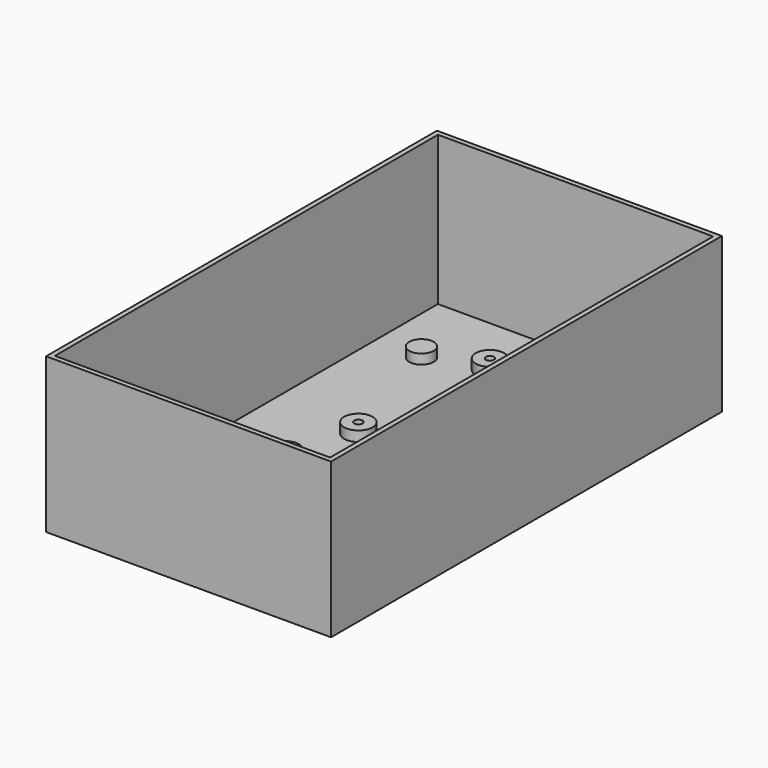
from build123d import *

# Parameters (mm, degrees)
SKETCH_W        = 70
SKETCH_H        = 120
PAD_DEPTH       = 38
SKETCH001_W     = 67.6
SKETCH001_H     = 117.6
POCKET_DEPTH    = 36.6
SKETCH112_R     = 3
PAD080_DEPTH    = 2.4
SKETCH113_R     = 1.1
POCKET031_DEPTH = 3
SKETCH136_R     = 3.5
PAD096_DEPTH    = 2.5
SKETCH137_R     = 1
POCKET039_DEPTH = 3
SKETCH138_W     = 9.2
SKETCH138_H     = 3.4
POCKET040_DEPTH = 1.401


with BuildPart() as part:
    # Sketch → Pad (new body)
    with BuildSketch(Plane.XY):
        Rectangle(SKETCH_W, SKETCH_H)
    extrude(amount=PAD_DEPTH)

    # Sketch001 (on DatumPlane) → Pocket (cut)
    with BuildSketch(Plane.XY.offset(38)):
        Rectangle(SKETCH001_W, SKETCH001_H)
    extrude(amount=-POCKET_DEPTH, mode=Mode.SUBTRACT)

    # Sketch112 → Pad080 (join)
    with BuildSketch(Plane.XY.offset(1.4)):
        with Locations((22.4, 39.500007)):
            Circle(SKETCH112_R)
        with Locations((-22.4, 39.500007)):
            Circle(SKETCH112_R)
        with Locations((-22.4, -25.499993)):
            Circle(SKETCH112_R)
        with Locations((22.4, -25.499993)):
            Circle(SKETCH112_R)
    extrude(amount=PAD080_DEPTH)

    # Sketch113 (on Face4 of Pad080) → Pocket031 (cut)
    with BuildSketch(Plane(origin=(0, 0, 0), x_dir=(1, 0, 0), z_dir=(0, 0, -1))):
        with Locations((22.4, -39.500007)):
            Circle(SKETCH113_R)
        with Locations((-22.4, -39.500007)):
            Circle(SKETCH113_R)
        with Locations((22.4, 25.499993)):
            Circle(SKETCH113_R)
        with Locations((-22.4, 25.499993)):
            Circle(SKETCH113_R)
    extrude(amount=-POCKET031_DEPTH, mode=Mode.SUBTRACT)

    # Sketch136 (on Face11 of Pad080) → Pad096 (join)
    with BuildSketch(Plane.XY.offset(1.4)):
        with Locations((20.403804, -13.646444)):
            Circle(SKETCH136_R)
        with Locations((-16.012195, -10.464463)):
            Circle(SKETCH136_R)
        with Locations((3.786795, -30.263453)):
            Circle(SKETCH136_R)
        with Locations((-8.901281, 43.65864)):
            Circle(SKETCH136_R)
        with Locations((7.715729, 27.041631)):
            Circle(SKETCH136_R)
        with Locations((-12.083261, 7.242641)):
            Circle(SKETCH136_R)
    extrude(amount=PAD096_DEPTH)

    # Sketch137 (on Face37 of Pad096) → Pocket039 (cut)
    with BuildSketch(Plane.XY.offset(3.9)):
        with Locations((-8.901281, 43.65864)):
            Circle(SKETCH137_R)
        with Locations((7.715729, 27.041631)):
            Circle(SKETCH137_R)
        with Locations((-12.083261, 7.242641)):
            Circle(SKETCH137_R)
        with Locations((-16.012195, -10.464463)):
            Circle(SKETCH137_R)
        with Locations((20.403804, -13.646444)):
            Circle(SKETCH137_R)
        with Locations((3.786795, -30.263453)):
            Circle(SKETCH137_R)
    extrude(amount=-POCKET039_DEPTH, mode=Mode.SUBTRACT)

    # Sketch138 (on Face19 of Pocket039) → Pocket040 (cut, through all)
    with BuildSketch(Plane.XY.offset(1.4)):
        with Locations((2.1, 44.7)):
            Rectangle(SKETCH138_W, SKETCH138_H)
        with Locations((-23.6, -37.7)):
            Rectangle(SKETCH138_W, SKETCH138_H)
    extrude(amount=-POCKET040_DEPTH, mode=Mode.SUBTRACT)


with BuildPart() as part_1:
    # Body placement: moved
    add(part.part.moved(Location((0, 5, 0))))


solid = part_1.part
